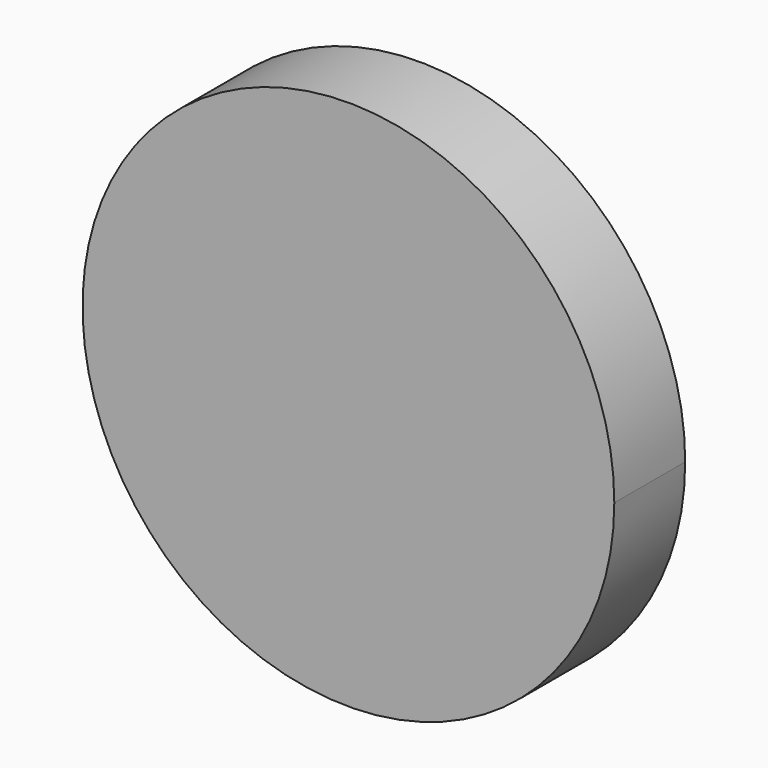
from build123d import *

# Parameters (mm, degrees)
F1_DEPTH = 12.7


with BuildPart() as f1:
    # F0 (on Front) → F1 (new body)
    with BuildSketch(Plane.XZ):
        with BuildLine():
            ThreePointArc((-26.215576, -27.646945), (15.046537, -35.003024), (38.1, 0))
            ThreePointArc((38.1, 0), (15.046537, 35.003024), (-26.215576, 27.646945))
            ThreePointArc((-26.215576, 27.646945), (-19.051678, 14.640378), (-16.571451, 0))
            ThreePointArc((-16.571451, 0), (-19.051678, -14.640378), (-26.215576, -27.646945))
        make_face()
        with BuildLine():
            ThreePointArc((-16.571451, 0), (-19.051678, 14.640378), (-26.215576, 27.646945))
            ThreePointArc((-26.215576, 27.646945), (-38.1, 0), (-26.215576, -27.646945))
            ThreePointArc((-26.215576, -27.646945), (-19.051678, -14.640378), (-16.571451, 0))
        make_face()
    extrude(amount=F1_DEPTH)


solid = f1.part
